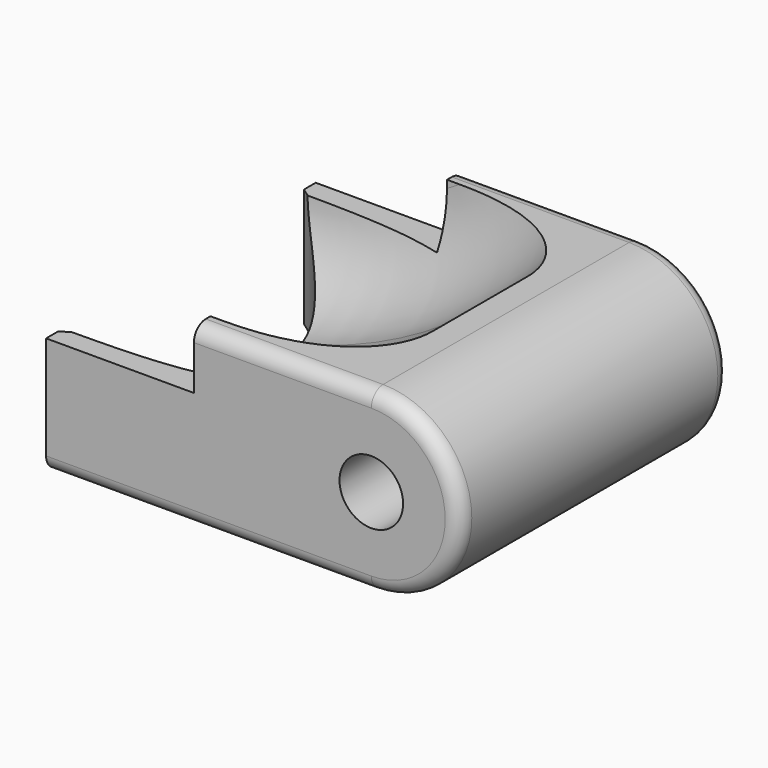
from build123d import *

# Parameters (mm, degrees)
F0_R     = 2.15
F1_DEPTH = 11.4
F3_DEPTH = 10
F4_R     = 6
F6_DEPTH = 25
F7_R     = 1


with BuildPart() as f1:
    # F0 (on Front) → F1 (new body, symmetric)
    with BuildSketch(Plane.XZ):
        with BuildLine():
            Line((-22, -6), (0, -6))
            ThreePointArc((0, -6), (6, 0), (0, 6))
            Line((0, 6), (-12, 6))
            Line((-12, 6), (-12, 2))
            Line((-12, 2), (-22, 2))
            Line((-22, 2), (-22, -6))
        make_face()
        Circle(F0_R, mode=Mode.SUBTRACT)
    extrude(amount=F1_DEPTH, both=True)

    # F2 (on Front) → F3 (cut, symmetric)
    with BuildSketch(Plane.XZ):
        with BuildLine():
            Line((-26.315558, 9.79657), (-26.315558, -3.972946))
            ThreePointArc((-26.315558, -3.972946), (-10.728351, -0.64123), (1.317963, 9.79657))
            Line((1.317963, 9.79657), (-26.315558, 9.79657))
        make_face()
    extrude(amount=F3_DEPTH, both=True, mode=Mode.SUBTRACT)

    # F4
    f4_edges = [f1.edges().sort_by_distance(p)[0] for p in [
        (-10.985467, 10, -0.767914),
        (-10.985467, -10, -0.767914),
    ]]
    fillet(f4_edges, radius=F4_R)

    # F5 (on face) → F6 (cut)
    with BuildSketch(Plane(origin=(0, 0, -6), x_dir=(1, 0, 0), z_dir=(0, 0, -1))):
        with BuildLine():
            Line((-13, 3), (-16.800034, 3))
            ThreePointArc((-16.800034, 3), (-18.707277, 7.186787), (-22, 10.4))
            Line((-22, 10.4), (-22, -10.4))
            ThreePointArc((-22, -10.4), (-18.707277, -7.186787), (-16.800034, -3))
            Line((-16.800034, -3), (-13, -3))
            Line((-13, -3), (-13, 3))
        make_face()
    extrude(amount=-F6_DEPTH, mode=Mode.SUBTRACT)

    # F7
    f7_edges = [f1.edges().sort_by_distance(p)[0] for p in [
        (-6, -11.4, 6),
        (-11, 11.4, -6),
    ]]
    fillet(f7_edges, radius=F7_R)


solid = f1.part
